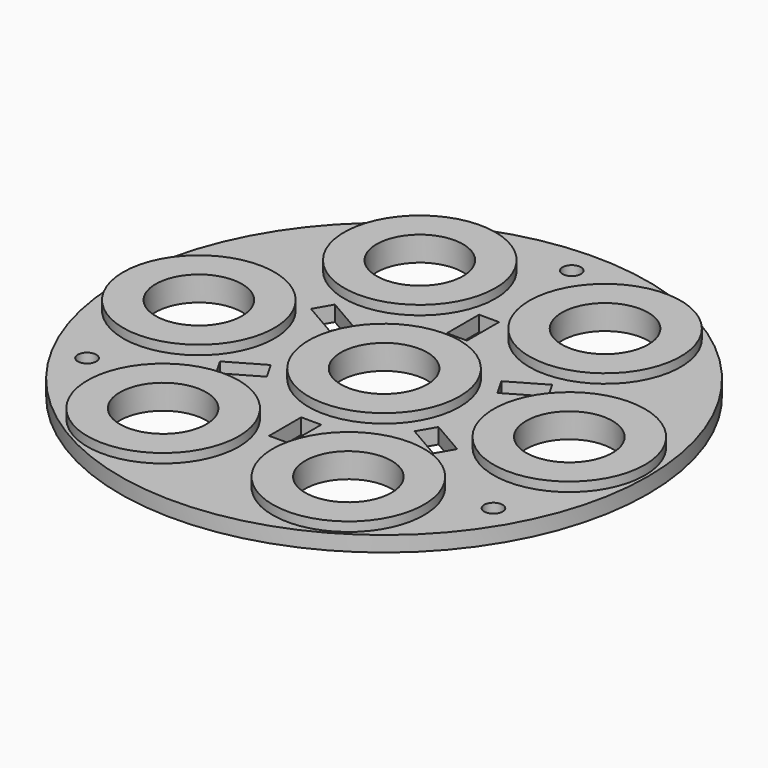
from build123d import *

# Parameters (mm, degrees)
CYLINDER_R            = 42.75
CYLINDER_DEPTH        = 2.5
CYLINDER001_R         = 12.25
CYLINDER001_DEPTH     = 4
CYLINDER002_R         = 12.25
CYLINDER002_DEPTH     = 4
POLARPATTERN_COUNT    = 6
SKETCH_R              = 7
POCKET_DEPTH          = 4.001
SKETCH001_R           = 7
POCKET001_DEPTH       = 245.963807
POLARPATTERN001_COUNT = 6
SKETCH002_R           = 1.5
POCKET002_DEPTH       = 245.963807
POLARPATTERN002_COUNT = 3
SKETCH003_W           = 3.25
SKETCH003_H           = 6.5
POCKET003_DEPTH       = 245.963807
POLARPATTERN003_COUNT = 6
POCKET004_DEPTH       = 1


with BuildPart() as part:
    # Cylinder → Cylinder (join)
    with BuildSketch(Plane.XY):
        Circle(CYLINDER_R)
    extrude(amount=CYLINDER_DEPTH)

    # Cylinder001 → Cylinder001 (join)
    with BuildSketch(Plane.XY):
        Circle(CYLINDER001_R)
    extrude(amount=CYLINDER001_DEPTH)

    # Cylinder002 → Cylinder002 (join)
    with BuildSketch(Plane(origin=(30, 0, 0), x_dir=(1, 0, 0), z_dir=(0, 0, 1))):
        Circle(CYLINDER002_R)
    cylinder002 = extrude(amount=CYLINDER002_DEPTH)

    # PolarPattern: Cylinder002 ×6 about axis
    polarpattern_axis = Axis((0, 0, 0), (0, 0, 1))
    for i in range(1, POLARPATTERN_COUNT):
        add(cylinder002.rotate(polarpattern_axis, i * 360 / POLARPATTERN_COUNT))

    # Sketch → Pocket (cut, through all)
    with BuildSketch(Plane.XY):
        Circle(SKETCH_R)
    extrude(amount=POCKET_DEPTH, mode=Mode.SUBTRACT)

    # Sketch001 → Pocket001 (cut, through all)
    with BuildSketch(Plane.XY):
        with Locations((-30, 0)):
            Circle(SKETCH001_R)
    pocket001 = extrude(amount=POCKET001_DEPTH, mode=Mode.SUBTRACT)

    # PolarPattern001: Pocket001 ×6 about axis
    polarpattern001_axis = Axis((0, 0, 0), (0, 0, 1))
    for i in range(1, POLARPATTERN001_COUNT):
        add(pocket001.rotate(polarpattern001_axis, i * 360 / POLARPATTERN001_COUNT), mode=Mode.SUBTRACT)

    # Sketch002 → Pocket002 (cut, through all)
    with BuildSketch(Plane.XY):
        with Locations((0, 38)):
            Circle(SKETCH002_R)
    pocket002 = extrude(amount=POCKET002_DEPTH, mode=Mode.SUBTRACT)

    # PolarPattern002: Pocket002 ×3 about axis
    polarpattern002_axis = Axis((0, 0, 0), (0, 0, 1))
    for i in range(1, POLARPATTERN002_COUNT):
        add(pocket002.rotate(polarpattern002_axis, i * 360 / POLARPATTERN002_COUNT), mode=Mode.SUBTRACT)

    # Sketch003 → Pocket003 (cut, through all)
    with BuildSketch(Plane.XY):
        with Locations((0, 18)):
            Rectangle(SKETCH003_W, SKETCH003_H)
    pocket003 = extrude(amount=POCKET003_DEPTH, mode=Mode.SUBTRACT)

    # PolarPattern003: Pocket003 ×6 about axis
    polarpattern003_axis = Axis((0, 0, 0), (0, 0, 1))
    for i in range(1, POLARPATTERN003_COUNT):
        add(pocket003.rotate(polarpattern003_axis, i * 360 / POLARPATTERN003_COUNT), mode=Mode.SUBTRACT)

    # Sketch004 → Pocket004 (cut, symmetric)
    with BuildSketch(Plane(origin=(24, 14, 0), x_dir=(0.5, -0.866025, 0), z_dir=(0, 0, 1))):
        Polygon((0, 0), (1.5, 6), (-1.5, 6), align=None)
    extrude(amount=POCKET004_DEPTH, both=True, mode=Mode.SUBTRACT)


solid = part.part
